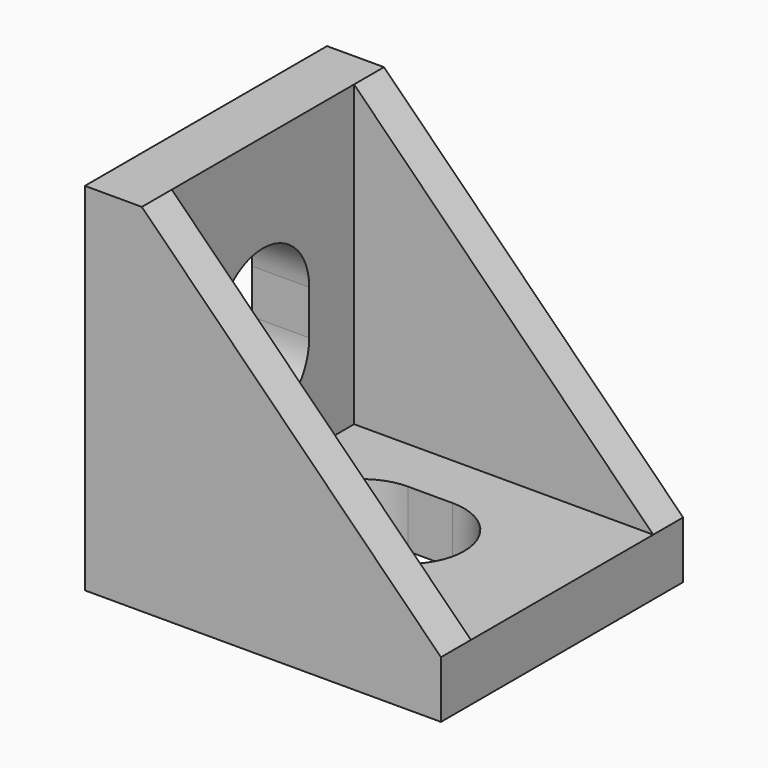
from build123d import *

# Parameters (mm, degrees)
F1_DEPTH  = 17
F2_W      = 12.8
F2_H      = 16.8
F3_DEPTH  = 16.8
F5_DEPTH  = 5
F11_W     = 3.8
F11_H     = 2
F12_DEPTH = 1


with BuildPart() as f1:
    # F0 (on Front) → F1 (new body)
    with BuildSketch(Plane.XZ):
        Polygon((0, 20), (0, 0), (20, 0), (20, 3.2), (3.2, 20), align=None)
    extrude(amount=F1_DEPTH)

    # F2 (on face) → F3 (cut)
    with BuildSketch(Plane.YZ.offset(20)):
        with Locations((-8.5, 11.6)):
            Rectangle(F2_W, F2_H)
    extrude(amount=-F3_DEPTH, mode=Mode.SUBTRACT)


with BuildPart() as f5:
    # F4 (on face) → F5 (new body)
    with BuildSketch(Plane(origin=(0, 0, 0), x_dir=(0, -1, 0), z_dir=(-1, 0, 0))):
        with BuildLine():
            ThreePointArc((5.25, 8.75), (8.5, 5.5), (11.75, 8.75))
            Line((11.75, 8.75), (11.75, 11.25))
            ThreePointArc((11.75, 11.25), (8.5, 14.5), (5.25, 11.25))
            Line((5.25, 11.25), (5.25, 8.75))
        make_face()
    extrude(amount=-F5_DEPTH)


with BuildPart() as f9_1:
    # F9: instance of F5
    add(f5.part.mirror(Plane(origin=(11.6, -2.1, 11.6), x_dir=(-0.7071067812, 0, -0.7071067812), z_dir=(0.7071067812, 0, -0.7071067812))))


with BuildPart() as f1_1:
    add(f1.part)

    # F10: cut F5, F9_1
    add(f5.part, mode=Mode.SUBTRACT)
    add(f9_1.part, mode=Mode.SUBTRACT)



with BuildPart() as f12:
    # F11 (on face) → F12 (new body)
    with BuildSketch(Plane(origin=(0, 0, 0), x_dir=(0, -1, 0), z_dir=(-1, 0, 0))):
        with Locations((8.5, 17.25)):
            Rectangle(F11_W, F11_H)
    extrude(amount=F12_DEPTH)


with BuildPart() as f12b:
    # F11 (on face) → F12, piece 2 (new body)
    with BuildSketch(Plane(origin=(0, 0, 0), x_dir=(0, -1, 0), z_dir=(-1, 0, 0))):
        with Locations((8.5, 2.75)):
            Rectangle(F11_W, F11_H)
    extrude(amount=F12_DEPTH)


with BuildPart() as f1_2:
    add(f1_1.part)

    add(f12.part)  # F13 merges F12

    add(f12b.part)  # F13 merges F12b
    # F13: F12, F12b across plane
    add(f12.part.mirror(Plane(origin=(11.6, -2.1, 11.6), x_dir=(-0.7071067812, 0, -0.7071067812), z_dir=(0.7071067812, 0, -0.7071067812))))
    add(f12b.part.mirror(Plane(origin=(11.6, -2.1, 11.6), x_dir=(-0.7071067812, 0, -0.7071067812), z_dir=(0.7071067812, 0, -0.7071067812))))


solid = f1_2.part
